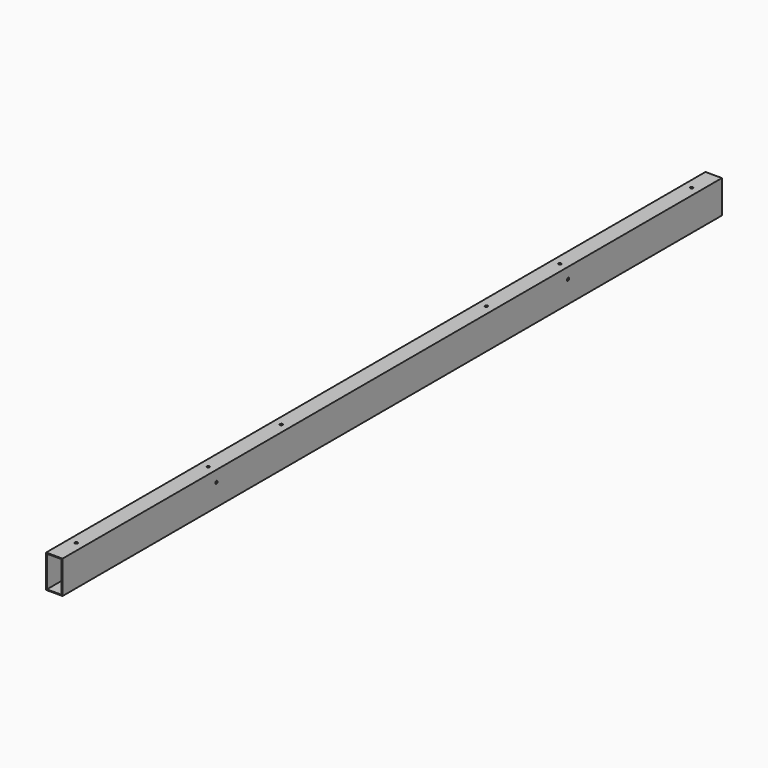
from build123d import *

# Parameters (mm, degrees)
F1_DEPTH = 1500
F3_D     = 10
F5_D     = 10


with BuildPart() as f1:
    # F0 (on Front) → F1 (new body, symmetric)
    with BuildSketch(Plane.XZ):
        Polygon((-30, 60), (-30, 0), (-30, -60), (30, -60), (30, 60), align=None)
        Polygon((-27, 0), (-27, 57), (27, 57), (27, -57), (-27, -57), align=None, mode=Mode.SUBTRACT)
    extrude(amount=F1_DEPTH, both=True)

    # F3 (through all)
    with Locations(Plane.XY.offset(60)):
        with Locations((0, 800), (0, -800), (0, 1400), (0, 466), (0, -467), (0, -1400)):
            Hole(F3_D / 2)

    # F5 (through all)
    with Locations(Plane(origin=(-30, 0, 0), x_dir=(0, -1, 0), z_dir=(-1, 0, 0))):
        with Locations((-800, 20), (800, 20)):
            Hole(F5_D / 2)


solid = f1.part
